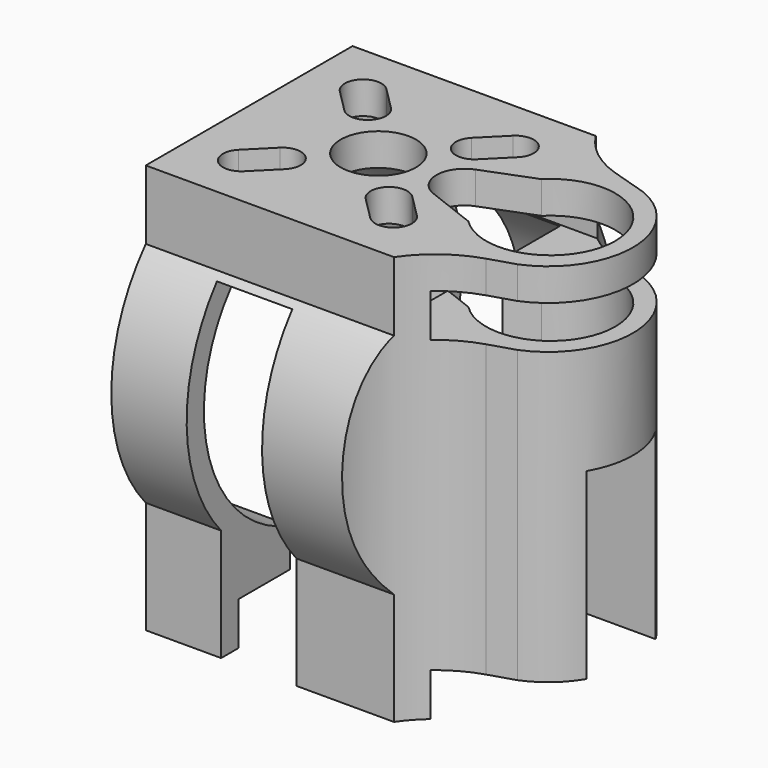
from build123d import *

# Parameters (mm, degrees)
EXTRUDE_DEPTH                             = 50
SKETCH004_AS_DRAWN_R                      = 3.5
EXTRUDE003_DEPTH                          = 16
EXTRUDE003_ONTO_SKETCH004_PLACEMENT_ANGLE = -90
SKETCH002_AS_DRAWN_W                      = 7
SKETCH002_AS_DRAWN_H                      = 55
EXTRUDE002_DEPTH                          = 50
EXTRUDE002_ONTO_SKETCH002_ROLL_ANGLE      = 90
EXTRUDE002_ONTO_SKETCH002_PLACEMENT_ANGLE = 180
SKETCH001_W                               = 20
SKETCH001_H                               = 4
EXTRUDE004_DEPTH                          = 40
CYLINDER_R                                = 14
CYLINDER_DEPTH                            = 21
CYLINDER_PITCH_ANGLE                      = 90
BOX_W                                     = 40
BOX_H                                     = 40
BOX_DEPTH                                 = 38


with BuildPart() as extrude_body:
    # Sketch → Extrude (new body)
    with BuildSketch(Plane.XY.offset(17)):
        with BuildLine():
            ThreePointArc((30.758472, -7.283122), (35.638931, 0), (30.758472, 7.283122))
            Line((30.758472, 7.283122), (27.322862, 8.355563))
            ThreePointArc((21.27771, 16.575411), (22.951713, 11.473701), (27.322862, 8.355563))
            Line((21.27771, 32.499498), (21.27771, 16.575411))
            Line((57.622795, 32.499498), (21.27771, 32.499498))
            Line((57.622795, -32.499498), (57.622795, 32.499498))
            Line((21.27771, -32.499498), (57.622795, -32.499498))
            Line((21.27771, -17.732402), (21.27771, -32.499498))
            ThreePointArc((28.420512, -8.014357), (23.25549, -11.702062), (21.27771, -17.732402))
            Line((30.758472, -7.283122), (28.420512, -8.014357))
        make_face()
    extrude(amount=-EXTRUDE_DEPTH)


with BuildPart() as motor_mount_sketch_extrude:
    # Sketch004 as drawn → Extrude003 (new)
    with BuildSketch(Plane.XY):
        with Locations((0, 15.99875)):
            Circle(SKETCH004_AS_DRAWN_R)
        with BuildLine():
            ThreePointArc((-6.151829, 19.746416), (-3.747666, 19.746416), (-3.747666, 22.150579))
            Line((-3.747666, 22.150579), (-5.868986, 24.271899))
            ThreePointArc((-5.868986, 24.271899), (-8.273149, 24.271899), (-8.273149, 21.867736))
            Line((-6.151829, 19.746416), (-8.273149, 21.867736))
        make_face()
        with BuildLine():
            ThreePointArc((-3.747666, 9.846921), (-3.747666, 12.251084), (-6.151829, 12.251084))
            Line((-6.151829, 12.251084), (-8.273149, 10.129764))
            ThreePointArc((-8.273149, 10.129764), (-8.273149, 7.725601), (-5.868986, 7.725601))
            Line((-3.747666, 9.846921), (-5.868986, 7.725601))
        make_face()
        with BuildLine():
            ThreePointArc((6.151829, 12.251084), (3.747666, 12.251084), (3.747666, 9.846921))
            Line((3.747666, 9.846921), (5.868986, 7.725601))
            ThreePointArc((5.868986, 7.725601), (8.273149, 7.725601), (8.273149, 10.129764))
            Line((6.151829, 12.251084), (8.273149, 10.129764))
        make_face()
        with BuildLine():
            ThreePointArc((3.747666, 22.150579), (3.747666, 19.746416), (6.151829, 19.746416))
            Line((6.151829, 19.746416), (8.273149, 21.867736))
            ThreePointArc((8.273149, 21.867736), (8.273149, 24.271899), (5.868986, 24.271899))
            Line((3.747666, 22.150579), (5.868986, 24.271899))
        make_face()
        with BuildLine():
            Line((-2.424646, 23.060085), (-4.242641, 27.756109))
            ThreePointArc((4.242641, 27.756109), (0, 37.99875), (-4.242641, 27.756109))
            Line((2.424646, 23.060085), (4.242641, 27.756109))
            ThreePointArc((-2.424646, 23.060085), (0, 21.39875), (2.424646, 23.060085))
        make_face()
    extrude(amount=-EXTRUDE003_DEPTH)


with BuildPart() as motor_mount_sketch_extrude_1:
    # Extrude003 onto Sketch004 placement: moved
    add(motor_mount_sketch_extrude.part.moved(Location((-4, 0, 17))).rotate(Axis((-4, 0, 17), (0, 0, 1)), EXTRUDE003_ONTO_SKETCH004_PLACEMENT_ANGLE))


with BuildPart() as side_cute_lite_extrude:
    # Sketch002 as drawn → Extrude002 (new)
    with BuildSketch(Plane.XY):
        with Locations((-10.5, -17.5)):
            Rectangle(SKETCH002_AS_DRAWN_W, SKETCH002_AS_DRAWN_H)
    extrude(amount=-EXTRUDE002_DEPTH)


with BuildPart() as side_cute_lite_extrude_1:
    # Extrude002 onto Sketch002 roll: moved
    add(side_cute_lite_extrude.part.rotate(Axis((0, 0, 0), (1, 0, 0)), EXTRUDE002_ONTO_SKETCH002_ROLL_ANGLE))


with BuildPart() as side_cute_lite_extrude_2:
    # Extrude002 onto Sketch002 placement: moved
    add(side_cute_lite_extrude_1.part.moved(Location((0, 23, 0))).rotate(Axis((0, 23, 0), (0, 0, 1)), EXTRUDE002_ONTO_SKETCH002_PLACEMENT_ANGLE))


with BuildPart() as outer_tube_profile_extrude:
    # Sketch001 → Extrude004 (new body)
    with BuildSketch(Plane(origin=(0, 0, 0), x_dir=(0, -1, 0), z_dir=(-1, 0, 0))):
        with BuildLine():
            Line((-12, 20), (-12, 10.583005))
            ThreePointArc((-12, 10.583005), (-16, 0), (-12, -10.583005))
            Line((-12, -35), (-12, -10.583005))
            Line((-32, -35), (-12, -35))
            Line((-32, 20), (-32, -35))
            Line((-12, 20), (-32, 20))
        make_face()
        with BuildLine():
            ThreePointArc((12, -10.583005), (16, 0), (12, 10.583005))
            Line((12, 20), (12, 10.583005))
            Line((12, 20), (32, 20))
            Line((32, 20), (32, -35))
            Line((32, -35), (12, -35))
            Line((12, -35), (12, -10.583005))
        make_face()
        Polygon((-4, 0), (4, 0), (4, -17), (10, -17), (10, -35), (-10, -35), (-10, -17), (-4, -17), align=None)
        with Locations((0, 12)):
            Rectangle(SKETCH001_W, SKETCH001_H)
    extrude(amount=-EXTRUDE004_DEPTH)


with BuildPart() as cylinder:
    # Cylinder → Cylinder (new body)
    with BuildSketch(Plane.XY):
        Circle(CYLINDER_R)
    extrude(amount=CYLINDER_DEPTH)


with BuildPart() as cylinder_1:
    # Cylinder pitch: moved
    add(cylinder.part.rotate(Axis((0, 0, 0), (0, 1, 0)), CYLINDER_PITCH_ANGLE))


with BuildPart() as cylinder_2:
    # Cylinder placement: moved
    add(cylinder_1.part)


with BuildPart() as cut004:
    # Box → Box (new body)
    with BuildSketch(Plane(origin=(0, -20, -21), x_dir=(1, 0, 0), z_dir=(0, 0, 1))):
        with Locations((20, 20)):
            Rectangle(BOX_W, BOX_H)
    extrude(amount=BOX_DEPTH)

    # Cut: cut Cylinder
    add(cylinder_2.part, mode=Mode.SUBTRACT)

    # Cut001: cut Outer_tube_profile_extrude
    add(outer_tube_profile_extrude.part, mode=Mode.SUBTRACT)

    # Cut002: cut Side_cute_lite_extrude
    add(side_cute_lite_extrude_2.part, mode=Mode.SUBTRACT)

    # Cut003: cut motor_mount_sketch_extrude
    add(motor_mount_sketch_extrude_1.part, mode=Mode.SUBTRACT)

    # Cut004: cut Extrude body
    add(extrude_body.part, mode=Mode.SUBTRACT)


solid = cut004.part
